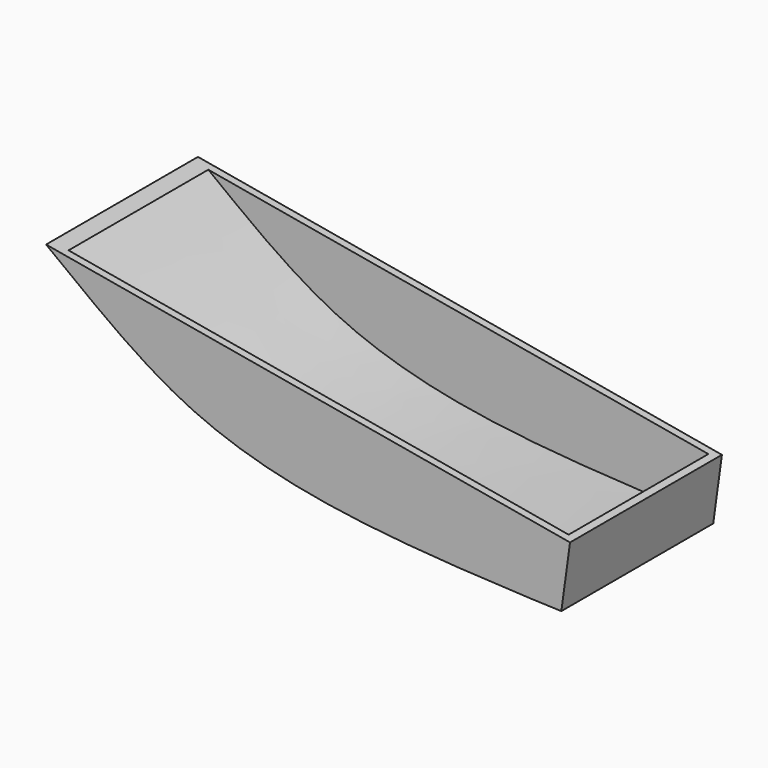
from build123d import *

# Parameters (mm, degrees)
F1_DEPTH = 63.5
F2_T     = -2.54


with BuildPart() as f1:
    # F0 (on Front) → F1 (new body)
    with BuildSketch(Plane.XZ):
        with BuildLine():
            Line((66.3062331783, -14.3898652402), (-108.9427692401, 16.3410020658))
            add(Edge.make_bspline(
                [(-108.9427692401, 16.3410020658), (-95.475419326, 6.2786704875), (-61.681367026, -21.9149025836), (3.219939573, -33.7845897342), (62.2520329781, -35.5352270514), (63.3992589063, -35.569248825)],
                knots=[0, 0, 0, 0, 0.3140073655, 0.6748702731, 0.9732279271, 0.9732279271, 0.9732279271, 0.9732279271], degree=3))
            Line((63.3992589063, -35.569248825), (66.3062331783, -14.3898652402))
        make_face()
    extrude(amount=F1_DEPTH)

    # F2
    f2_openings = [f1.faces().sort_by_distance(p)[0] for p in [
        (-21.318268, -31.75, 0.975568),
    ]]
    offset(amount=F2_T, openings=f2_openings, kind=Kind.INTERSECTION)


solid = f1.part
